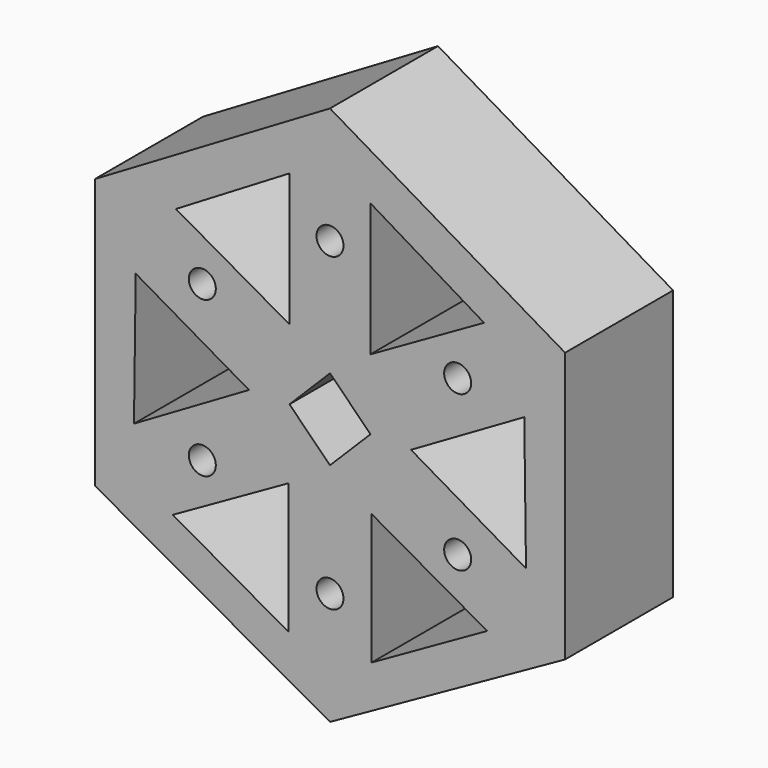
from build123d import *

# Parameters (mm, degrees)
F0_R     = 1.27
F1_DEPTH = 12.7


with BuildPart() as f1:
    # F0 (on Front) → F1 (new body)
    with BuildSketch(Plane.XZ):
        Polygon((0, 25.739086), (-22.112327, 12.70128), (-22.112327, -12.7), (0, -25.060914), (22.112327, -12.7), (22.112327, 12.70128), align=None)
        Polygon((-3.883768, -6.55597), (-3.92257, -18.866995), (-14.785223, -12.720766), align=None, mode=Mode.SUBTRACT)
        with Locations((0, -14.435457)):
            Circle(F0_R, mode=Mode.SUBTRACT)
        with Locations((-12.008663, -7.3025)):
            Circle(F0_R, mode=Mode.SUBTRACT)
        Polygon((-18.273105, 6.119124), (-7.619829, -0.05101), (-18.438062, -6.360705), align=None, mode=Mode.SUBTRACT)
        Polygon((-3.81, 0), (0, 3.81), (3.81, 0), (0, -3.81), align=None, mode=Mode.SUBTRACT)
        Polygon((3.883768, -6.55597), (14.785223, -12.720766), (3.92257, -18.866995), align=None, mode=Mode.SUBTRACT)
        with Locations((12.008663, -7.3025)):
            Circle(F0_R, mode=Mode.SUBTRACT)
        Polygon((18.273105, 6.119124), (18.438062, -6.360705), (7.619829, -0.05101), align=None, mode=Mode.SUBTRACT)
        with Locations((-12.008663, 7.30314)):
            Circle(F0_R, mode=Mode.SUBTRACT)
        Polygon((-14.492327, 12.70128), (-3.795361, 19.131543), (-3.795073, 6.607709), align=None, mode=Mode.SUBTRACT)
        with Locations((0, 14.774543)):
            Circle(F0_R, mode=Mode.SUBTRACT)
        Polygon((3.795073, 6.607709), (3.795361, 19.131543), (14.492327, 12.70128), align=None, mode=Mode.SUBTRACT)
        with Locations((12.008663, 7.30314)):
            Circle(F0_R, mode=Mode.SUBTRACT)
    extrude(amount=F1_DEPTH)


solid = f1.part
